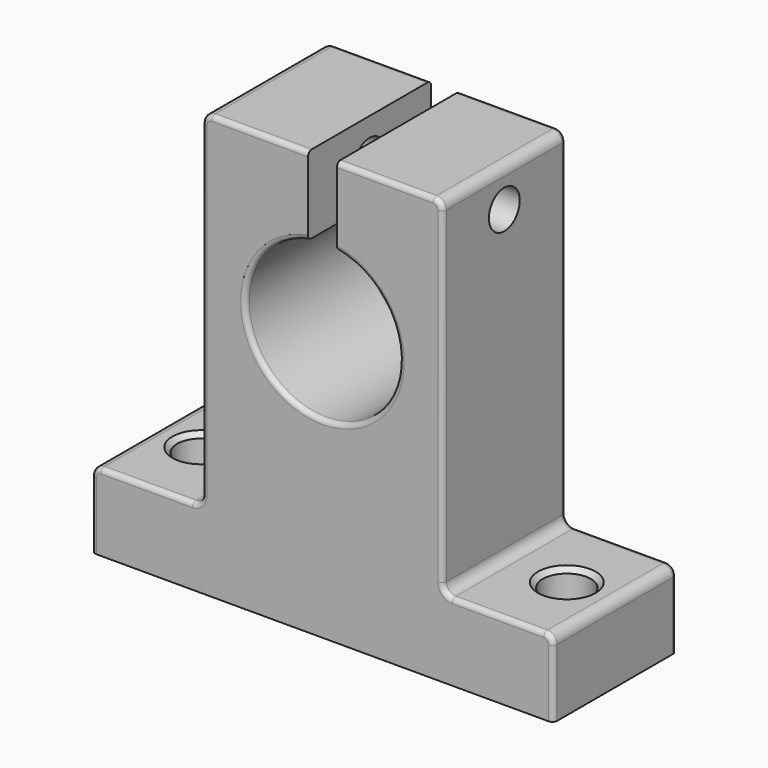
from build123d import *

# Parameters (mm, degrees)
F1_DEPTH       = 8
F3_D           = 5
F3_CSINK_D     = 6
F3_CSINK_ANGLE = 90
F4_R           = 0.5
F6_D           = 4
F6_CSINK_D     = 5
F6_CSINK_ANGLE = 90


with BuildPart() as f1:
    # F0 (on Front) → F1 (new body, symmetric)
    with BuildSketch(Plane.XZ):
        with BuildLine():
            Line((-24, 0), (24, 0))
            Line((24, 0), (24, 7))
            ThreePointArc((24, 7), (23.707107, 7.707107), (23, 8))
            Line((23, 8), (13.5, 8))
            ThreePointArc((13.5, 8), (12.792893, 8.292893), (12.5, 9))
            Line((12.5, 9), (12.5, 43))
            ThreePointArc((12.5, 43), (12.207107, 43.707107), (11.5, 44))
            Line((11.5, 44), (1.5, 44))
            Line((1.5, 44), (1.5, 35.858117))
            ThreePointArc((1.5, 35.858117), (0, 20), (-1.5, 35.858117))
            Line((-1.5, 35.858117), (-1.5, 44))
            Line((-1.5, 44), (-11.5, 44))
            ThreePointArc((-11.5, 44), (-12.207107, 43.707107), (-12.5, 43))
            Line((-12.5, 43), (-12.5, 9))
            ThreePointArc((-12.5, 9), (-12.792893, 8.292893), (-13.5, 8))
            Line((-13.5, 8), (-23, 8))
            ThreePointArc((-23, 8), (-23.707107, 7.707107), (-24, 7))
            Line((-24, 7), (-24, 0))
        make_face()
    extrude(amount=F1_DEPTH, both=True)

    # F3 (through all)
    with Locations(Plane.XY.offset(8)):
        with Locations((-19, 0), (19, 0)):
            CounterSinkHole(F3_D / 2, F3_CSINK_D / 2, counter_sink_angle=F3_CSINK_ANGLE)

    # F4
    f4_edges = [f1.edges().sort_by_distance(p)[0] for p in [
        (12.5, -8, 26),
        (-12.5, -8, 26),
        (-12.5, 8, 26),
        (12.5, 8, 26),
        (0, -8, 20),
        (0, 8, 20),
    ]]
    fillet(f4_edges, radius=F4_R)

    # F6 (through all)
    with Locations(Plane(origin=(-12.5, 0, 0), x_dir=(0, -1, 0), z_dir=(-1, 0, 0))):
        with Locations((0, 40)):
            CounterSinkHole(F6_D / 2, F6_CSINK_D / 2, counter_sink_angle=F6_CSINK_ANGLE)


solid = f1.part
